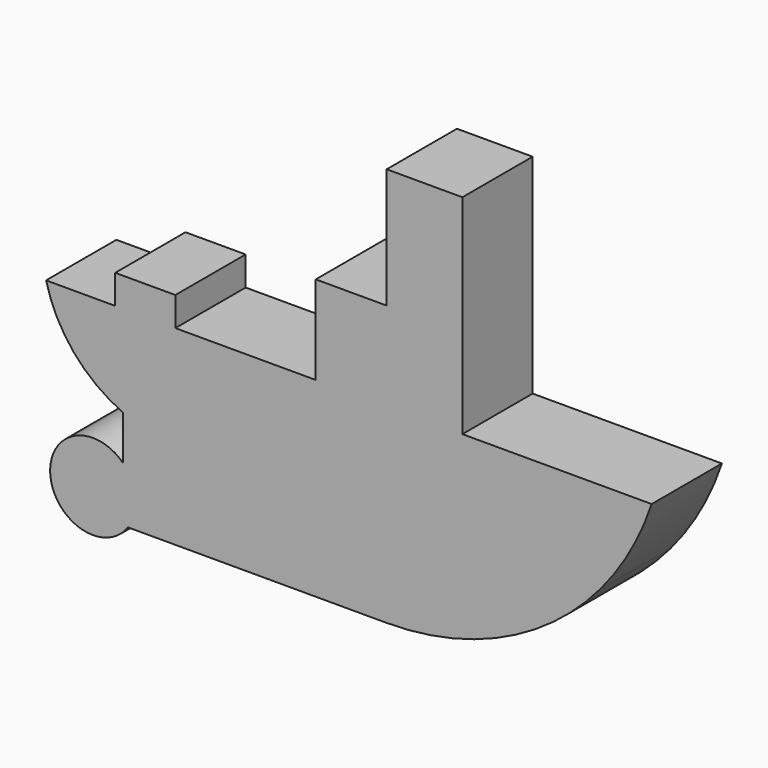
from build123d import *

# Parameters (mm, degrees)
F0_W     = 76.2336051654
F0_H     = 12.8238399291
F1_DEPTH = 25.4


with BuildPart() as f1:
    # F0 (on Front) → F1 (new body)
    with BuildSketch(Plane.XZ):
        with BuildLine():
            Line((0, -39.2335951328), (0, -55.1777966321))
            ThreePointArc((0, -55.1777966321), (25.3947344291, -51.0934089949), (48.2183970243, -39.2335951328))
            Line((48.2183970243, -39.2335951328), (0, -39.2335951328))
        make_face()
        Polygon((-74.7671502275, -55.1777966321), (0, -55.1777966321), (0, -39.2335951328), (-76.2336051654, -39.2335951328), (-76.2336051654, -55.1777966321), align=None)
        with BuildLine():
            Line((0, -39.2335951328), (48.2183970243, -39.2335951328))
            ThreePointArc((48.2183970243, -39.2335951328), (55.4027211148, -33.2174165852), (61.8420272475, -26.4097552037))
            Line((61.8420272475, -26.4097552037), (0, -26.4097552037))
            Line((0, -26.4097552037), (0, -39.2335951328))
        make_face()
        with BuildLine():
            ThreePointArc((-76.2336051654, -39.2335951328), (-97.2315440125, -49.2044021928), (-74.7671502275, -55.1777966321))
            Line((-74.7671502275, -55.1777966321), (-76.2336051654, -55.1777966321))
            Line((-76.2336051654, -55.1777966321), (-76.2336051654, -39.2335951328))
        make_face()
        with Locations((-38.1168025827, -32.8216751683)):
            Rectangle(F0_W, F0_H)
        with BuildLine():
            Line((61.8420272475, -13.3770994993), (61.8420272475, -26.4097552037))
            ThreePointArc((61.8420272475, -26.4097552037), (70.4948614625, -13.9048920781), (76.6509249806, 0))
            Line((76.6509249806, 0), (61.8420272475, 0))
            Line((61.8420272475, 0), (61.8420272475, -13.3770994993))
        make_face()
        Polygon((0, -26.4097552037), (61.8420272475, -26.4097552037), (61.8420272475, -13.3770994993), (0.0163518326, -13.2999842622), align=None)
        Polygon((-76.2336051654, -26.4097552037), (0, -26.4097552037), (0.0163518326, -13.2999842622), (-76.2336051654, -13.2048776019), align=None)
        Polygon((0.0163518326, -13.2999842622), (61.8420272475, -13.3770994993), (61.8420272475, 0), (21.9261534512, 0), (0.0329409185, 0), align=None)
        with BuildLine():
            ThreePointArc((-98.4511649107, 0), (-90.3999949354, -15.7771328177), (-76.2336051654, -26.4097552037))
            Line((-76.2336051654, -26.4097552037), (-76.2336051654, -13.2048776019))
            Line((-76.2336051654, -13.2048776019), (-76.2336051654, 0))
            Line((-76.2336051654, 0), (-78.4630104899, 0))
            Line((-78.4630104899, 0), (-98.4511649107, 0))
        make_face()
        Polygon((-76.2336051654, -13.2048776019), (0.0163518326, -13.2999842622), (0.0329409185, 0), (0, 0), (-20.4764902592, 0), (-61.0670559108, 0), (-76.2336051654, 0), align=None)
        Polygon((0.0329409185, 25.6056360344), (0.0329409185, 0), (21.9261534512, 0), (21.9261534512, 60.3007838378), (0.0329409185, 60.3007838378), align=None)
        Polygon((0, 0), (0.0329409185, 0), (0.0329409185, 25.6056360344), (-20.4764902592, 25.6056360344), (-20.4764902592, 0), align=None)
        Polygon((-78.4630104899, 0), (-76.2336051654, 0), (-61.0670559108, 0), (-61.0670559108, 8.4261661395), (-78.4630104899, 8.4261661395), align=None)
    extrude(amount=F1_DEPTH)


solid = f1.part
